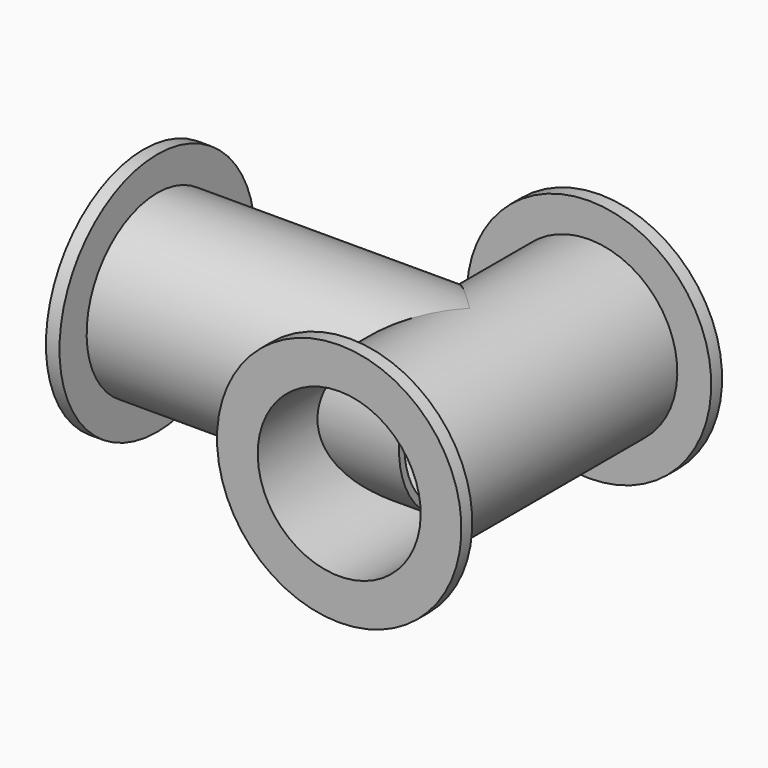
from build123d import *


with BuildPart() as f1:
    # F0 (on Right) → F1 (revolve)
    with BuildSketch(Plane.YZ):
        Polygon((0, 76.2), (0, 114.3), (-12.7, 114.3), (-12.7, 82.55), (-292.1, 82.55), (-292.1, 114.3), (-304.8, 114.3), (-304.8, 76.2), align=None)
    revolve(axis=Axis((0, 69.986956, 0), (0, 1, 0)))

    # F3 (on mid) → F4 (revolve)
    with BuildSketch(Plane(origin=(0, -152.4, 0), x_dir=(-1, 0, 0), z_dir=(0, 1, 0))):
        Polygon((304.799496, 76.2), (304.799496, 114.3), (292.099496, 114.3), (292.099496, 82.55), (-0.000504, 82.55), (-0.000504, 76.2), align=None)
    revolve(axis=Axis((-10.273844, -152.4, 0), (1, 0, 0)))


solid = f1.part
